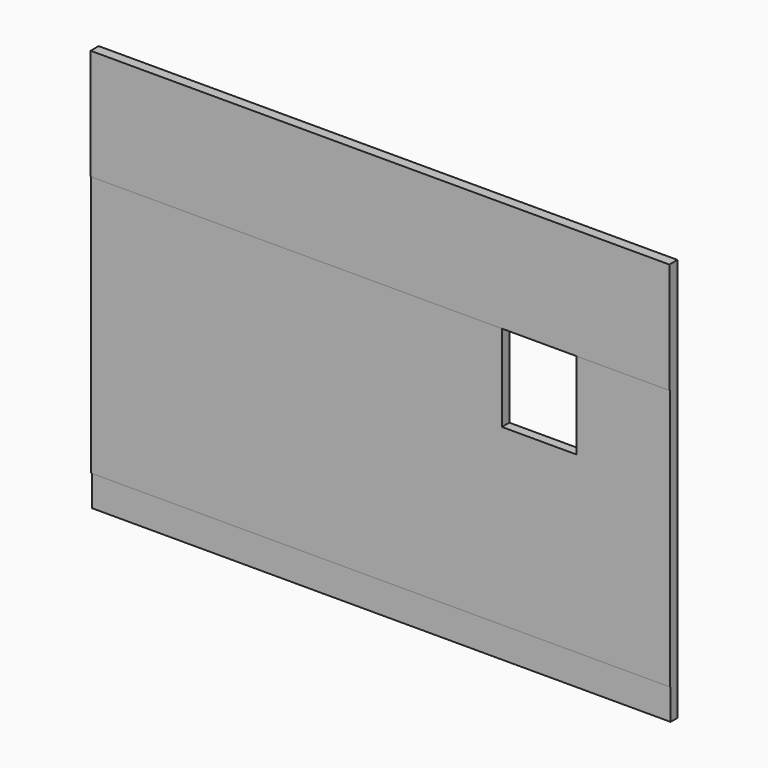
from build123d import *

# Parameters (mm, degrees)
F1_DEPTH = 82.55
F2_DEPTH = 76.2
F0_W     = 4724.4
F0_H     = 254
F3_DEPTH = 69.85


with BuildPart() as f1:
    # F0 (on Front) → F1 (new body)
    with BuildSketch(Plane.XZ):
        Polygon((-4021.951199, -683.835213), (-669.151199, -683.835213), (-59.551199, -683.835213), (702.448801, -683.835213), (702.448801, 220.895961), (-4021.951199, 220.895961), align=None)
    extrude(amount=F1_DEPTH)

    # F0 (on Front) → F2 (join)
    with BuildSketch(Plane.XZ):
        Polygon((-669.151199, -1395.035213), (-669.151199, -683.835213), (-4021.951199, -683.835213), (-4021.951199, -2817.435213), (702.448801, -2817.435213), (702.448801, -683.835213), (-59.551199, -683.835213), (-59.551199, -1395.035213), align=None)
    extrude(amount=F2_DEPTH)

    # F0 (on Front) → F3 (join)
    with BuildSketch(Plane.XZ):
        with Locations((-1659.751199, -2944.435213)):
            Rectangle(F0_W, F0_H)
    extrude(amount=F3_DEPTH)


solid = f1.part
